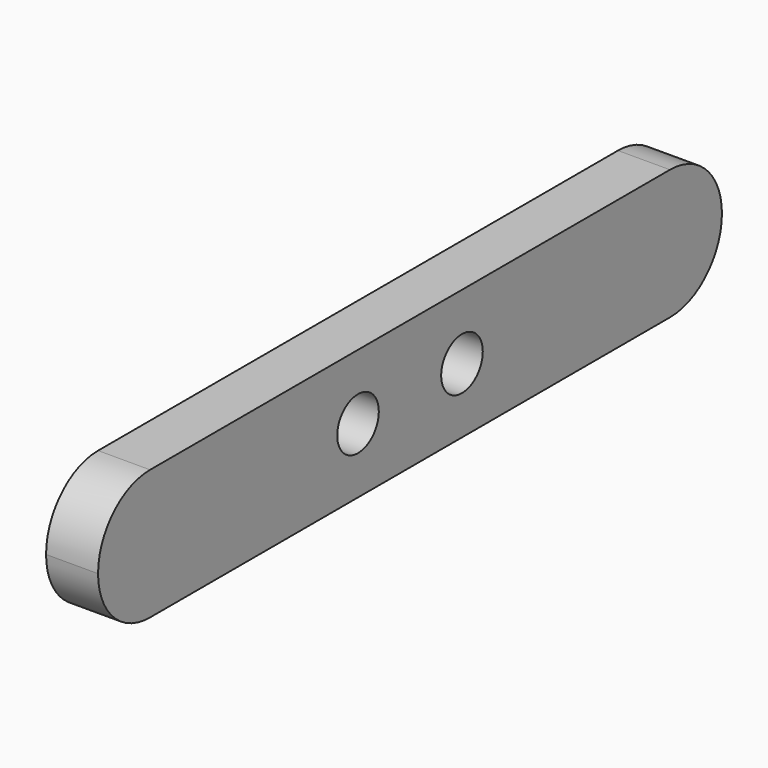
from build123d import *

# Parameters (mm, degrees)
F1_DEPTH = 4
F2_R     = 2
F3_DEPTH = 25


with BuildPart() as f1:
    # F0 (on Right) → F1 (new body)
    with BuildSketch(Plane.YZ):
        with BuildLine():
            Line((17.990056, 25.330209), (-32.009944, 25.330209))
            ThreePointArc((-32.009944, 25.330209), (-35.545478, 23.865743), (-37.009944, 20.330209))
            ThreePointArc((-37.009944, 20.330209), (-35.545478, 16.794676), (-32.009944, 15.330209))
            Line((-32.009944, 15.330209), (17.990056, 15.330209))
            ThreePointArc((17.990056, 15.330209), (21.52559, 16.794676), (22.990056, 20.330209))
            ThreePointArc((22.990056, 20.330209), (21.52559, 23.865743), (17.990056, 25.330209))
        make_face()
    extrude(amount=F1_DEPTH)

    # F2 (on face) → F3 (cut)
    with BuildSketch(Plane.YZ.offset(4)):
        with Locations((-12.009944, 20.330209)):
            Circle(F2_R)
        with Locations((-2.009944, 20.330209)):
            Circle(F2_R)
    extrude(amount=-F3_DEPTH, mode=Mode.SUBTRACT)


solid = f1.part
